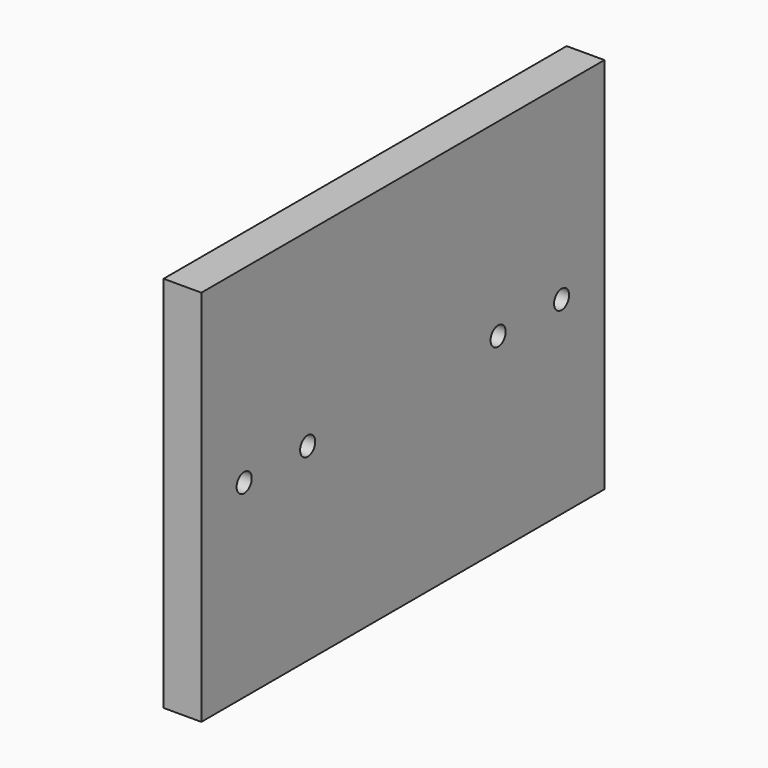
from build123d import *

# Parameters (mm, degrees)
F0_W     = 7.62
F0_H     = 76.2
F1_DEPTH = 101.6
F2_R     = 1.905
F3_DEPTH = 25.4


with BuildPart() as f1:
    # F0 (on Front) → F1 (new body)
    with BuildSketch(Plane.XZ):
        with Locations((3.81, 38.1)):
            Rectangle(F0_W, F0_H)
    extrude(amount=F1_DEPTH)

    # F2 (on face) → F3 (cut)
    with BuildSketch(Plane(origin=(0, 0, 0), x_dir=(0, -1, 0), z_dir=(-1, 0, 0))):
        with BuildLine():
            ThreePointArc((92.71, 38.1), (90.805, 40.005), (88.9, 38.1))
            ThreePointArc((88.9, 38.1), (90.805, 36.195), (92.71, 38.1))
        make_face()
        with BuildLine():
            ThreePointArc((76.708, 38.1), (74.803, 40.005), (72.898, 38.1))
            Line((72.898, 38.1), (74.803, 38.1))
            Line((74.803, 38.1), (76.708, 38.1))
        make_face()
        with BuildLine():
            Line((74.803, 38.1), (72.898, 38.1))
            ThreePointArc((72.898, 38.1), (74.803, 36.195), (76.708, 38.1))
            Line((76.708, 38.1), (74.803, 38.1))
        make_face()
        with Locations((26.797, 38.1)):
            Circle(F2_R)
        with Locations((10.795, 38.1)):
            Circle(F2_R)
    extrude(amount=-F3_DEPTH, mode=Mode.SUBTRACT)


solid = f1.part
